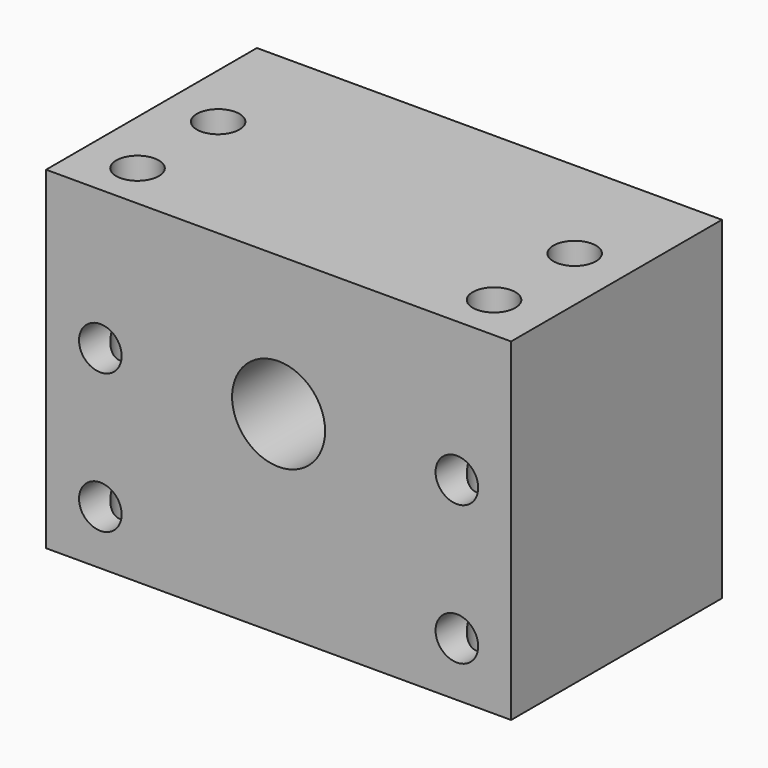
from build123d import *

# Parameters (mm, degrees)
F0_W     = 60
F0_H     = 43
F0_R     = 6
F1_DEPTH = 34
F2_R     = 2.75
F3_DEPTH = 34.001
F4_R     = 2.75
F5_DEPTH = 43.001


with BuildPart() as f1:
    # F0 (on Front) → F1 (new body)
    with BuildSketch(Plane.XZ):
        Rectangle(F0_W, F0_H)
        with Locations((0, 3.5)):
            Circle(F0_R, mode=Mode.SUBTRACT)
    extrude(amount=-F1_DEPTH)

    # F2 (on face) → F3 (cut, through all)
    with BuildSketch(Plane.XZ):
        with Locations((23, 3.5)):
            Circle(F2_R)
        with Locations((-23, -14.5)):
            Circle(F2_R)
        with Locations((23, -14.5)):
            Circle(F2_R)
        with Locations((-23, 3.5)):
            Circle(F2_R)
    extrude(amount=-F3_DEPTH, mode=Mode.SUBTRACT)

    # F4 (on face) → F5 (cut, through all)
    with BuildSketch(Plane.XY.offset(21.5)):
        with Locations((-23, 19)):
            Circle(F4_R)
        with Locations((-23, 6)):
            Circle(F4_R)
        with Locations((23, 6)):
            Circle(F4_R)
        with Locations((23, 19)):
            Circle(F4_R)
    extrude(amount=-F5_DEPTH, mode=Mode.SUBTRACT)


solid = f1.part
